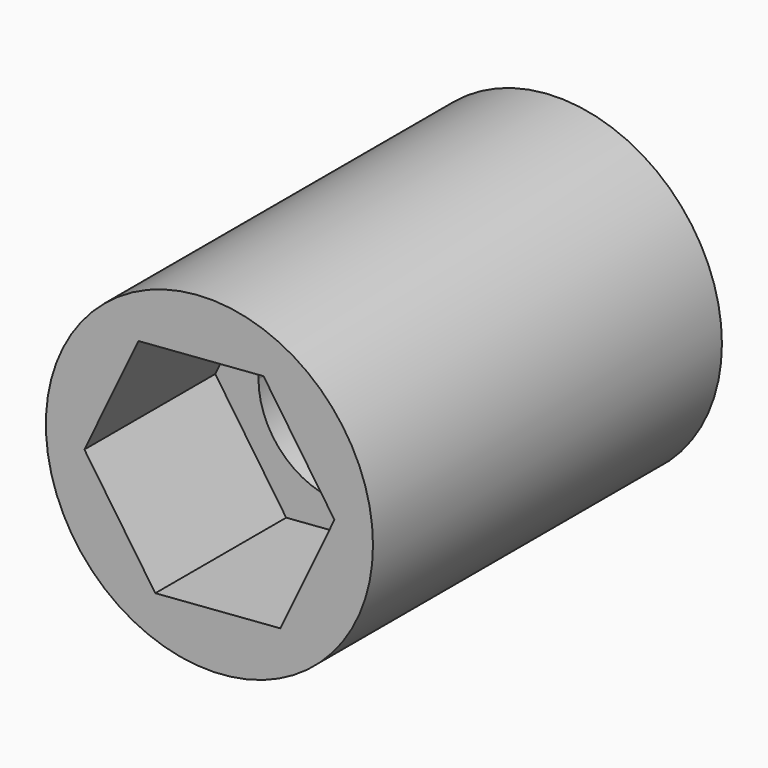
from build123d import *

# Parameters (mm, degrees)
F0_R     = 9.525
F1_DEPTH = 25.4
F3_DEPTH = 25.401
F4_DEPTH = 11.0998
F6_DEPTH = 9.525


with BuildPart() as f1:
    # F0 (on Front) → F1 (new body)
    with BuildSketch(Plane.XZ):
        Circle(F0_R)
    extrude(amount=F1_DEPTH)

    # F2 (on Front) → F3 (cut, through all)
    with BuildSketch(Plane.XZ):
        with BuildLine():
            ThreePointArc((0, -4.7625), (3.367596, -3.367596), (4.7625, 0))
            ThreePointArc((4.7625, 0), (3.367596, 3.367596), (0, 4.7625))
            ThreePointArc((0, 4.7625), (-3.367596, 3.367596), (-4.7625, 0))
            ThreePointArc((-4.7625, 0), (-3.367596, -3.367596), (0, -4.7625))
        make_face()
    extrude(amount=F3_DEPTH, mode=Mode.SUBTRACT)

    # F2 (on Front) → F4 (cut)
    with BuildSketch(Plane.XZ):
        with BuildLine():
            Line((4.7625, -4.7625), (4.7625, 0))
            ThreePointArc((4.7625, 0), (3.367596, -3.367596), (0, -4.7625))
            Line((0, -4.7625), (4.7625, -4.7625))
        make_face()
        with BuildLine():
            ThreePointArc((0, 4.7625), (3.367596, 3.367596), (4.7625, 0))
            Line((4.7625, 0), (4.7625, 4.7625))
            Line((4.7625, 4.7625), (0, 4.7625))
        make_face()
        with BuildLine():
            ThreePointArc((-4.7625, 0), (-3.367596, 3.367596), (0, 4.7625))
            Line((0, 4.7625), (-4.7625, 4.7625))
            Line((-4.7625, 4.7625), (-4.7625, 0))
        make_face()
        with BuildLine():
            Line((-4.7625, -4.7625), (0, -4.7625))
            ThreePointArc((0, -4.7625), (-3.367596, -3.367596), (-4.7625, 0))
            Line((-4.7625, 0), (-4.7625, -4.7625))
        make_face()
    extrude(amount=F4_DEPTH, mode=Mode.SUBTRACT)

    # F5 (on face) → F6 (cut)
    with BuildSketch(Plane.XZ.offset(25.4)):
        Polygon((-7.280595, -0.565196), (-3.150823, -6.587778), (4.129771, -6.022582), (7.280595, 0.565196), (3.150823, 6.587778), (-4.129771, 6.022582), align=None)
    extrude(amount=-F6_DEPTH, mode=Mode.SUBTRACT)


solid = f1.part
